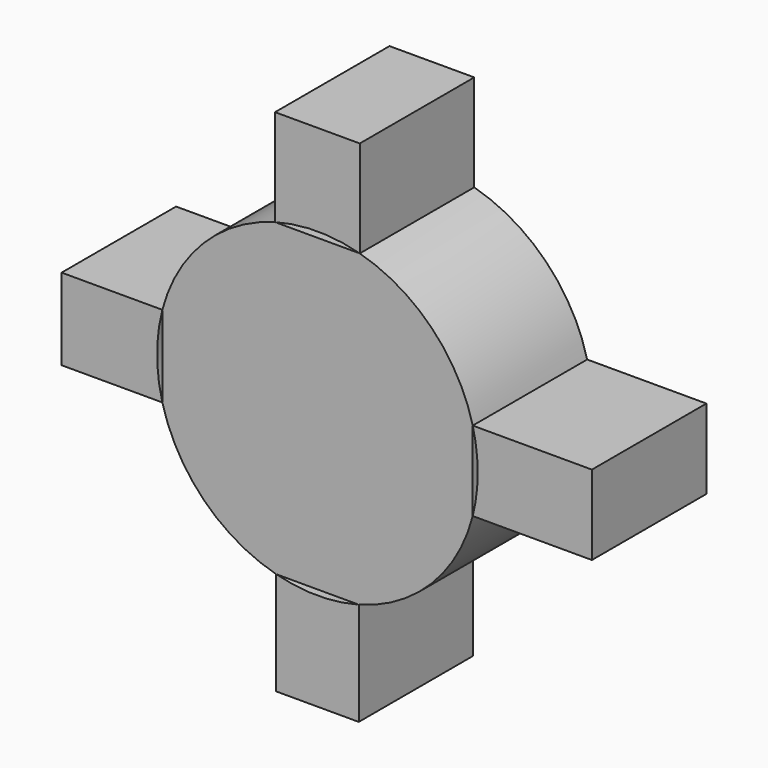
from build123d import *

# Parameters (mm, degrees)
F1_DEPTH = 25.4


with BuildPart() as f1:
    # F0 (on Front) → F1 (new body)
    with BuildSketch(Plane.XZ):
        with BuildLine():
            ThreePointArc((-7.521023, 27.449), (0, 28.460734), (7.521023, 27.449))
            Line((7.521023, 27.449), (7.521023, 44.632857))
            Line((7.521023, 44.632857), (-7.521023, 44.632857))
            Line((-7.521023, 44.632857), (-7.521023, 27.449))
        make_face()
        with BuildLine():
            Line((27.56961, -7.066114), (27.56961, 7.066114))
            ThreePointArc((27.56961, 7.066114), (20.290481, 19.957699), (7.521023, 27.449))
            Line((7.521023, 27.449), (-7.521023, 27.449))
            ThreePointArc((-7.521023, 27.449), (-20.227657, 20.02137), (-27.52465, 7.239269))
            Line((-27.52465, 7.239269), (-27.52465, -7.239269))
            ThreePointArc((-27.52465, -7.239269), (-20.162613, -20.086871), (-7.34281, -27.497209))
            Line((-7.34281, -27.497209), (7.34281, -27.497209))
            ThreePointArc((7.34281, -27.497209), (20.225644, -20.023404), (27.56961, -7.066114))
        make_face()
        with BuildLine():
            ThreePointArc((27.56961, 7.066114), (28.237074, 3.561042), (28.460734, 0))
            ThreePointArc((28.460734, 0), (28.237074, -3.561042), (27.56961, -7.066114))
            Line((27.56961, -7.066114), (48.72894, -7.066114))
            Line((48.72894, -7.066114), (48.72894, 7.066114))
            Line((48.72894, 7.066114), (27.56961, 7.066114))
        make_face()
        with BuildLine():
            Line((7.34281, -45.822531), (7.34281, -27.497209))
            ThreePointArc((7.34281, -27.497209), (0, -28.460734), (-7.34281, -27.497209))
            Line((-7.34281, -27.497209), (-7.34281, -45.822531))
            Line((-7.34281, -45.822531), (7.34281, -45.822531))
        make_face()
        with BuildLine():
            ThreePointArc((-27.52465, -7.239269), (-28.460734, 0), (-27.52465, 7.239269))
            Line((-27.52465, 7.239269), (-45.404755, 7.239269))
            Line((-45.404755, 7.239269), (-45.404755, -7.239269))
            Line((-45.404755, -7.239269), (-27.52465, -7.239269))
        make_face()
    extrude(amount=F1_DEPTH)


solid = f1.part
